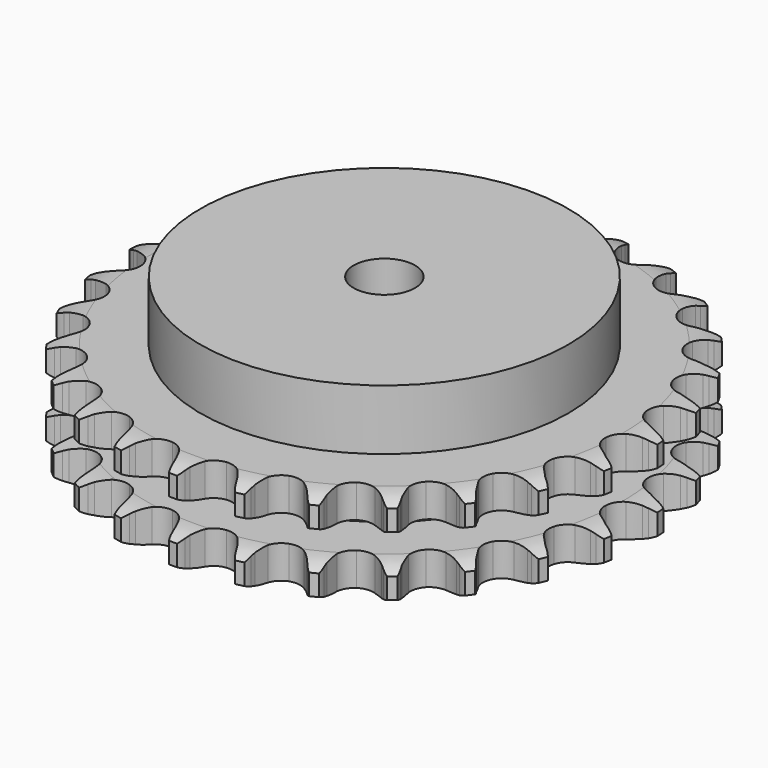
from build123d import *

# Parameters (mm, degrees)
PAD_DEPTH         = 30.3
SKETCH001_R       = 60
PAD001_DEPTH      = 50
SKETCH002_R       = 10
POCKET_DEPTH      = 0.001
POCKET_DEPTH_BACK = 50.001


with BuildPart() as part:
    # Sprocket → Pad (new body)
    with BuildSketch(Plane.XY):
        with BuildLine():
            ThreePointArc((-10.223451, 87.467216), (-8.67739, 85.726182), (-7.581898, 83.671577))
            Line((-7.581898, 83.671577), (-6.99412, 82.163716))
            ThreePointArc((-6.99412, 82.163716), (-6.059632, 80.184804), (-4.86001, 78.354431))
            ThreePointArc((-4.86001, 78.354431), (-2.712671, 76.57905), (0, 75.943076))
            ThreePointArc((0, 75.943076), (2.712671, 76.57905), (4.86001, 78.354431))
            ThreePointArc((4.86001, 78.354431), (6.059632, 80.184804), (6.99412, 82.163716))
            Line((6.99412, 82.163716), (7.581898, 83.671577))
            ThreePointArc((7.581898, 83.671577), (8.67739, 85.726182), (10.223451, 87.467216))
            ThreePointArc((10.223451, 87.467216), (11.326328, 85.416565), (11.918466, 83.164705))
            Line((11.918466, 83.164705), (12.142664, 81.561937))
            ThreePointArc((12.142664, 81.561937), (12.595595, 79.42086), (13.340768, 77.363173))
            ThreePointArc((13.340768, 77.363173), (15.020794, 75.140437), (17.513679, 73.896021))
            ThreePointArc((17.513679, 73.896021), (20.299894, 73.889267), (22.798783, 75.121582))
            Line((22.798783, 75.121582), (25.75385, 78.336027))
            ThreePointArc((25.75385, 78.336027), (26.19658, 79.013673), (26.673521, 79.667692))
            ThreePointArc((26.673521, 79.667692), (28.213308, 81.414277), (30.119205, 82.751835))
            ThreePointArc((30.119205, 82.751835), (30.719441, 80.50212), (30.776303, 78.174402))
            Line((30.776303, 78.174402), (30.624834, 76.563134))
            ThreePointArc((30.624834, 76.563134), (30.57179, 74.375316), (30.822341, 72.201246))
            ThreePointArc((30.822341, 72.201246), (31.944484, 69.650983), (34.08319, 67.865212))
            ThreePointArc((34.08319, 67.865212), (36.792746, 67.216094), (39.508468, 67.838909))
            Line((39.508468, 67.838909), (43.125183, 70.285223))
            ThreePointArc((43.125183, 70.285223), (43.712255, 70.842502), (44.327167, 71.368902))
            ThreePointArc((44.327167, 71.368902), (46.228239, 72.713308), (48.391224, 73.575282))
            ThreePointArc((48.391224, 73.575282), (48.456461, 71.247784), (47.974982, 68.969697))
            Line((47.974982, 68.969697), (47.456012, 67.436792))
            ThreePointArc((47.456012, 67.436792), (46.899851, 65.32018), (46.642274, 63.146931))
            ThreePointArc((46.642274, 63.146931), (47.146038, 60.406627), (48.815268, 58.175771))
            ThreePointArc((48.815268, 58.175771), (51.302091, 56.919285), (54.088241, 56.899023))
            Line((54.088241, 56.899023), (58.171626, 58.445324))
            ThreePointArc((58.171626, 58.445324), (58.871391, 58.852194), (59.591124, 59.222596))
            ThreePointArc((59.591124, 59.222596), (61.750994, 60.092346), (64.05446, 60.432267))
            ThreePointArc((64.05446, 60.432267), (63.58118, 58.152462), (62.587317, 56.046817))
            Line((62.587317, 56.046817), (61.728823, 54.674915))
            ThreePointArc((61.728823, 54.674915), (60.69953, 52.743616), (59.94771, 50.688348))
            ThreePointArc((59.94771, 50.688348), (59.805937, 47.905734), (60.915703, 45.35006))
            ThreePointArc((60.915703, 45.35006), (63.045726, 43.553942), (65.752103, 42.891695))
            Line((65.752103, 42.891695), (70.082021, 43.454623))
            ThreePointArc((70.082021, 43.454623), (70.856755, 43.689148), (71.642508, 43.883584))
            ThreePointArc((71.642508, 43.883584), (73.944737, 44.23179), (76.264504, 44.031332))
            ThreePointArc((76.264504, 44.031332), (75.278222, 41.922125), (73.825553, 40.10244))
            Line((73.825553, 40.10244), (72.673818, 38.965499))
            ThreePointArc((72.673818, 38.965499), (71.226881, 37.32363), (70.021349, 35.497144))
            ThreePointArc((70.021349, 35.497144), (69.241683, 32.82223), (69.732156, 30.079516))
            ThreePointArc((69.732156, 30.079516), (71.390551, 27.840594), (73.871252, 26.572066))
            Line((73.871252, 26.572066), (78.214277, 26.121272))
            ThreePointArc((78.214277, 26.121272), (79.022212, 26.17081), (79.831626, 26.178797))
            ThreePointArc((79.831626, 26.178797), (82.152099, 25.986686), (84.363108, 25.256657))
            ThreePointArc((84.363108, 25.256657), (82.916995, 23.431756), (81.083835, 21.996129))
            Line((81.083835, 21.996129), (79.700948, 21.155443))
            ThreePointArc((79.700948, 21.155443), (77.914373, 19.891518), (76.32012, 18.392279))
            ThreePointArc((76.32012, 18.392279), (74.944592, 15.969271), (74.78933, 13.187377))
            ThreePointArc((74.78933, 13.187377), (75.886692, 10.626353), (78.007983, 8.819929))
            Line((78.007983, 8.819929), (82.129981, 7.379716))
            ThreePointArc((82.129981, 7.379716), (82.927563, 7.241596), (83.717, 7.062705))
            ThreePointArc((83.717, 7.062705), (85.930621, 6.340634), (87.913676, 5.120389))
            ThreePointArc((87.913676, 5.120389), (86.085692, 3.678175), (83.970866, 2.704001))
            Line((83.970866, 2.704001), (82.43138, 2.204892))
            ThreePointArc((82.43138, 2.204892), (80.401481, 1.387048), (78.504452, 0.295882))
            ThreePointArc((78.504452, 0.295882), (76.607218, -1.744595), (75.814592, -4.415697))
            ThreePointArc((75.814592, -4.415697), (76.291762, -7.160757), (77.939284, -9.407692))
            Line((77.939284, -9.407692), (81.618036, -11.759683))
            ThreePointArc((81.618036, -11.759683), (82.362266, -12.078015), (83.089169, -12.43414))
            ThreePointArc((83.089169, -12.43414), (85.076601, -13.647244), (86.724794, -15.291921))
            ThreePointArc((86.724794, -15.291921), (84.613487, -16.273697), (82.331006, -16.7339))
            Line((82.331006, -16.7339), (80.717914, -16.864525))
            ThreePointArc((80.717914, -16.864525), (78.554124, -17.192197), (76.45659, -17.816466))
            ThreePointArc((76.45659, -17.816466), (74.139929, -19.364409), (72.75267, -21.78072))
            ThreePointArc((72.75267, -21.78072), (72.583924, -24.561829), (73.668857, -27.128142))
            Line((73.668857, -27.128142), (76.706042, -30.265113))
            ThreePointArc((76.706042, -30.265113), (77.356799, -30.746496), (77.98198, -31.260658))
            ThreePointArc((77.98198, -31.260658), (79.636079, -32.899395), (80.860556, -34.879839))
            ThreePointArc((80.860556, -34.879839), (78.579746, -35.34825), (76.25266, -35.269672))
            Line((76.25266, -35.269672), (74.652925, -35.024772))
            ThreePointArc((74.652925, -35.024772), (72.471894, -34.844607), (70.286933, -34.968324))
            ThreePointArc((70.286933, -34.968324), (67.675738, -35.940283), (65.768633, -37.971538))
            ThreePointArc((65.768633, -37.971538), (64.963067, -40.638767), (65.426923, -43.386107))
            Line((65.426923, -43.386107), (67.658805, -47.138944))
            ThreePointArc((67.658805, -47.138944), (68.181006, -47.757426), (68.670762, -48.401905))
            ThreePointArc((68.670762, -48.401905), (69.902356, -50.377931), (70.637105, -52.587376))
            ThreePointArc((70.637105, -52.587376), (68.309751, -52.51717), (66.063514, -51.904047))
            Line((66.063514, -51.904047), (64.563378, -51.296824))
            ThreePointArc((64.563378, -51.296824), (62.482685, -50.618535), (60.328089, -50.23503))
            ThreePointArc((60.328089, -50.23503), (57.56313, -50.578607), (55.238992, -52.115301))
            ThreePointArc((55.238992, -52.115301), (53.840035, -54.524858), (53.657807, -57.305116))
            Line((53.657807, -57.305116), (54.964065, -61.471502))
            ThreePointArc((54.964065, -61.471502), (55.329558, -62.19374), (55.657485, -62.933793))
            ThreePointArc((55.657485, -62.933793), (56.400178, -65.14058), (56.605589, -67.459914))
            ThreePointArc((56.605589, -67.459914), (54.35716, -66.854876), (52.312866, -65.740261))
            Line((52.312866, -65.740261), (50.993202, -64.803451))
            ThreePointArc((50.993202, -64.803451), (49.125019, -63.663605), (47.116942, -62.793553))
            ThreePointArc((47.116942, -62.793553), (44.347279, -62.490226), (41.731402, -63.449514))
            ThreePointArc((41.731402, -63.449514), (39.814472, -65.4715), (38.995985, -68.134791))
            Line((38.995985, -68.134791), (39.306197, -72.490115))
            ThreePointArc((39.306197, -72.490115), (39.495279, -73.277174), (39.643699, -74.072904))
            ThreePointArc((39.643699, -74.072904), (39.857453, -76.391484), (39.522451, -78.695671))
            ThreePointArc((39.522451, -78.695671), (37.47416, -77.588418), (35.742019, -76.032401))
            Line((35.742019, -76.032401), (34.673969, -74.816508))
            ThreePointArc((34.673969, -74.816508), (33.11901, -73.276553), (31.365709, -71.96686))
            ThreePointArc((31.365709, -71.96686), (28.740654, -71.03298), (25.974062, -71.363148))
            ThreePointArc((25.974062, -71.363148), (23.642501, -72.888556), (22.231879, -75.291302))
            Line((22.231879, -75.291302), (21.529323, -79.600768))
            ThreePointArc((21.529323, -79.600768), (21.5318, -80.410217), (21.492711, -81.218725))
            ThreePointArc((21.492711, -81.218725), (21.166001, -83.524103), (20.308648, -85.688923))
            ThreePointArc((20.308648, -85.688923), (18.570919, -84.139148), (17.244309, -82.225615))
            Line((17.244309, -82.225615), (16.485454, -80.796186))
            ThreePointArc((16.485454, -80.796186), (15.327546, -78.939143), (13.923542, -77.260414))
            ThreePointArc((13.923542, -77.260414), (11.584614, -75.746328), (8.816453, -75.429576))
            ThreePointArc((8.816453, -75.429576), (6.195957, -76.376172), (4.269246, -78.388839))
            Line((4.269246, -78.388839), (2.591797, -82.420122))
            ThreePointArc((2.591797, -82.420122), (2.407535, -83.208324), (2.183045, -83.986024))
            ThreePointArc((2.183045, -83.986024), (1.333485, -86.153915), (0, -88.062664))
            ThreePointArc((0, -88.062664), (-1.333485, -86.153915), (-2.183045, -83.986024))
            Line((-2.183045, -83.986024), (-2.591797, -82.420122))
            ThreePointArc((-2.591797, -82.420122), (-3.290229, -80.346104), (-4.269246, -78.388839))
            ThreePointArc((-4.269246, -78.388839), (-6.195957, -76.376172), (-8.816453, -75.429576))
            ThreePointArc((-8.816453, -75.429576), (-11.584614, -75.746328), (-13.923542, -77.260414))
            Line((-13.923542, -77.260414), (-16.485454, -80.796186))
            ThreePointArc((-16.485454, -80.796186), (-16.84652, -81.520648), (-17.244309, -82.225615))
            ThreePointArc((-17.244309, -82.225615), (-18.570919, -84.139148), (-20.308648, -85.688923))
            ThreePointArc((-20.308648, -85.688923), (-21.166001, -83.524103), (-21.492711, -81.218725))
            Line((-21.492711, -81.218725), (-21.529323, -79.600768))
            ThreePointArc((-21.529323, -79.600768), (-21.730627, -77.421585), (-22.231879, -75.291302))
            ThreePointArc((-22.231879, -75.291302), (-23.642501, -72.888556), (-25.974062, -71.363148))
            ThreePointArc((-25.974062, -71.363148), (-28.740654, -71.03298), (-31.365709, -71.96686))
            Line((-31.365709, -71.96686), (-34.673969, -74.816508))
            ThreePointArc((-34.673969, -74.816508), (-35.192376, -75.438174), (-35.742019, -76.032401))
            ThreePointArc((-35.742019, -76.032401), (-37.47416, -77.588418), (-39.522451, -78.695671))
            ThreePointArc((-39.522451, -78.695671), (-39.857453, -76.391484), (-39.643699, -74.072904))
            Line((-39.643699, -74.072904), (-39.306197, -72.490115))
            ThreePointArc((-39.306197, -72.490115), (-38.999521, -70.323249), (-38.995985, -68.134791))
            ThreePointArc((-38.995985, -68.134791), (-39.814472, -65.4715), (-41.731402, -63.449514))
            ThreePointArc((-41.731402, -63.449514), (-44.347279, -62.490226), (-47.116942, -62.793553))
            Line((-47.116942, -62.793553), (-50.993202, -64.803451))
            ThreePointArc((-50.993202, -64.803451), (-51.641001, -65.288808), (-52.312866, -65.740261))
            ThreePointArc((-52.312866, -65.740261), (-54.35716, -66.854876), (-56.605589, -67.459914))
            ThreePointArc((-56.605589, -67.459914), (-56.400178, -65.14058), (-55.657485, -62.933793))
            Line((-55.657485, -62.933793), (-54.964065, -61.471502))
            ThreePointArc((-54.964065, -61.471502), (-54.165941, -59.433768), (-53.657807, -57.305116))
            ThreePointArc((-53.657807, -57.305116), (-53.840035, -54.524858), (-55.238992, -52.115301))
            ThreePointArc((-55.238992, -52.115301), (-57.56313, -50.578607), (-60.328089, -50.23503))
            Line((-60.328089, -50.23503), (-64.563378, -51.296824))
            ThreePointArc((-64.563378, -51.296824), (-65.305646, -51.619705), (-66.063514, -51.904047))
            ThreePointArc((-66.063514, -51.904047), (-68.309751, -52.51717), (-70.637105, -52.587376))
            ThreePointArc((-70.637105, -52.587376), (-69.902356, -50.377931), (-68.670762, -48.401905))
            Line((-68.670762, -48.401905), (-67.658805, -47.138944))
            ThreePointArc((-67.658805, -47.138944), (-66.412262, -45.340197), (-65.426923, -43.386107))
            ThreePointArc((-65.426923, -43.386107), (-64.963067, -40.638767), (-65.768633, -37.971538))
            ThreePointArc((-65.768633, -37.971538), (-67.675738, -35.940283), (-70.286933, -34.968324))
            Line((-70.286933, -34.968324), (-74.652925, -35.024772))
            ThreePointArc((-74.652925, -35.024772), (-75.449647, -35.167771), (-76.25266, -35.269672))
            ThreePointArc((-76.25266, -35.269672), (-78.579746, -35.34825), (-80.860556, -34.879839))
            ThreePointArc((-80.860556, -34.879839), (-79.636079, -32.899395), (-77.98198, -31.260658))
            Line((-77.98198, -31.260658), (-76.706042, -30.265113))
            ThreePointArc((-76.706042, -30.265113), (-75.07828, -28.802325), (-73.668857, -27.128142))
            ThreePointArc((-73.668857, -27.128142), (-72.583924, -24.561829), (-72.75267, -21.78072))
            ThreePointArc((-72.75267, -21.78072), (-74.139929, -19.364409), (-76.45659, -17.816466))
            Line((-76.45659, -17.816466), (-80.717914, -16.864525))
            ThreePointArc((-80.717914, -16.864525), (-81.526138, -16.819933), (-82.331006, -16.7339))
            ThreePointArc((-82.331006, -16.7339), (-84.613487, -16.273697), (-86.724794, -15.291921))
            ThreePointArc((-86.724794, -15.291921), (-85.076601, -13.647244), (-83.089169, -12.43414))
            Line((-83.089169, -12.43414), (-81.618036, -11.759683))
            ThreePointArc((-81.618036, -11.759683), (-79.696808, -10.711712), (-77.939284, -9.407692))
            ThreePointArc((-77.939284, -9.407692), (-76.291762, -7.160757), (-75.814592, -4.415697))
            ThreePointArc((-75.814592, -4.415697), (-76.607218, -1.744595), (-78.504452, 0.295882))
            Line((-78.504452, 0.295882), (-82.43138, 2.204892))
            ThreePointArc((-82.43138, 2.204892), (-83.207534, 2.434672), (-83.970866, 2.704001))
            ThreePointArc((-83.970866, 2.704001), (-86.085692, 3.678175), (-87.913676, 5.120389))
            ThreePointArc((-87.913676, 5.120389), (-85.930621, 6.340634), (-83.717, 7.062705))
            Line((-83.717, 7.062705), (-82.129981, 7.379716))
            ThreePointArc((-82.129981, 7.379716), (-80.018861, 7.956373), (-78.007983, 8.819929))
            ThreePointArc((-78.007983, 8.819929), (-75.886692, 10.626353), (-74.78933, 13.187377))
            ThreePointArc((-74.78933, 13.187377), (-74.944592, 15.969271), (-76.32012, 18.392279))
            Line((-76.32012, 18.392279), (-79.700948, 21.155443))
            ThreePointArc((-79.700948, 21.155443), (-80.40319, 21.558023), (-81.083835, 21.996129))
            ThreePointArc((-81.083835, 21.996129), (-82.916995, 23.431756), (-84.363108, 25.256657))
            ThreePointArc((-84.363108, 25.256657), (-82.152099, 25.986686), (-79.831626, 26.178797))
            Line((-79.831626, 26.178797), (-78.214277, 26.121272))
            ThreePointArc((-78.214277, 26.121272), (-76.027077, 26.195527), (-73.871252, 26.572066))
            ThreePointArc((-73.871252, 26.572066), (-71.390551, 27.840594), (-69.732156, 30.079516))
            ThreePointArc((-69.732156, 30.079516), (-69.241683, 32.82223), (-70.021349, 35.497144))
            Line((-70.021349, 35.497144), (-72.673818, 38.965499))
            ThreePointArc((-72.673818, 38.965499), (-73.26429, 39.519175), (-73.825553, 40.10244))
            ThreePointArc((-73.825553, 40.10244), (-75.278222, 41.922125), (-76.264504, 44.031332))
            ThreePointArc((-76.264504, 44.031332), (-73.944737, 44.23179), (-71.642508, 43.883584))
            Line((-71.642508, 43.883584), (-70.082021, 43.454623))
            ThreePointArc((-70.082021, 43.454623), (-67.936653, 43.022474), (-65.752103, 42.891695))
            ThreePointArc((-65.752103, 42.891695), (-63.045726, 43.553942), (-60.915703, 45.35006))
            ThreePointArc((-60.915703, 45.35006), (-59.805937, 47.905734), (-59.94771, 50.688348))
            Line((-59.94771, 50.688348), (-61.728823, 54.674915))
            ThreePointArc((-61.728823, 54.674915), (-62.175692, 55.349839), (-62.587317, 56.046817))
            ThreePointArc((-62.587317, 56.046817), (-63.58118, 58.152462), (-64.05446, 60.432267))
            ThreePointArc((-64.05446, 60.432267), (-61.750994, 60.092346), (-59.591124, 59.222596))
            Line((-59.591124, 59.222596), (-58.171626, 58.445324))
            ThreePointArc((-58.171626, 58.445324), (-56.183746, 57.530068), (-54.088241, 56.899023))
            ThreePointArc((-54.088241, 56.899023), (-51.302091, 56.919285), (-48.815268, 58.175771))
            ThreePointArc((-48.815268, 58.175771), (-47.146038, 60.406627), (-46.642274, 63.146931))
            Line((-46.642274, 63.146931), (-47.456012, 67.436792))
            ThreePointArc((-47.456012, 67.436792), (-47.735187, 68.196578), (-47.974982, 68.969697))
            ThreePointArc((-47.974982, 68.969697), (-48.456461, 71.247784), (-48.391224, 73.575282))
            ThreePointArc((-48.391224, 73.575282), (-46.228239, 72.713308), (-44.327167, 71.368902))
            Line((-44.327167, 71.368902), (-43.125183, 70.285223))
            ThreePointArc((-43.125183, 70.285223), (-41.401959, 68.936201), (-39.508468, 67.838909))
            ThreePointArc((-39.508468, 67.838909), (-36.792746, 67.216094), (-34.08319, 67.865212))
            ThreePointArc((-34.08319, 67.865212), (-31.944484, 69.650983), (-30.822341, 72.201246))
            Line((-30.822341, 72.201246), (-30.624834, 76.563134))
            ThreePointArc((-30.624834, 76.563134), (-30.721266, 77.366822), (-30.776303, 78.174402))
            ThreePointArc((-30.776303, 78.174402), (-30.719441, 80.50212), (-30.119205, 82.751835))
            ThreePointArc((-30.119205, 82.751835), (-28.213308, 81.414277), (-26.673521, 79.667692))
            Line((-26.673521, 79.667692), (-25.75385, 78.336027))
            ThreePointArc((-25.75385, 78.336027), (-24.388182, 76.625965), (-22.798783, 75.121582))
            ThreePointArc((-22.798783, 75.121582), (-20.299894, 73.889267), (-17.513679, 73.896021))
            ThreePointArc((-17.513679, 73.896021), (-15.020794, 75.140437), (-13.340768, 77.363173))
            Line((-13.340768, 77.363173), (-12.142664, 81.561937))
            ThreePointArc((-12.142664, 81.561937), (-12.051153, 82.366201), (-11.918466, 83.164705))
            ThreePointArc((-11.918466, 83.164705), (-11.326328, 85.416565), (-10.223451, 87.467216))
        make_face()
    extrude(amount=PAD_DEPTH)

    # Sketch → Groove (revolve, cut)
    with BuildSketch(Plane.XZ):
        with BuildLine():
            ThreePointArc((77.664719, 0), (82.023618, 0.506758), (86.15, 2))
            Line((86.15, 2), (86.15, 8.8))
            ThreePointArc((86.15, 8.8), (82.023618, 10.293242), (77.664719, 10.8))
            Line((60, 10.8), (77.664719, 10.8))
            Line((60, 19.5), (60, 10.8))
            Line((77.664719, 19.5), (60, 19.5))
            ThreePointArc((77.664719, 19.5), (82.023618, 20.006758), (86.15, 21.5))
            Line((86.15, 21.5), (86.15, 28.3))
            ThreePointArc((86.15, 28.3), (82.023618, 29.793242), (77.664719, 30.3))
            Line((77.664719, 30.3), (96.15, 30.3))
            Line((96.15, 30.3), (96.15, 0))
            Line((77.664719, 0), (96.15, 0))
        make_face()
    revolve(axis=Axis((0, 0, 0), (0, 0, 1)), mode=Mode.SUBTRACT)

    # Sketch001 → Pad001 (join)
    with BuildSketch(Plane.XY):
        Circle(SKETCH001_R)
    extrude(amount=PAD001_DEPTH)

    # Sketch002 → Pocket (cut, two sides)
    with BuildSketch(Plane.XY) as pocket_sk:
        Circle(SKETCH002_R)
    extrude(amount=-POCKET_DEPTH, mode=Mode.SUBTRACT)
    extrude(pocket_sk.sketch, amount=POCKET_DEPTH_BACK, mode=Mode.SUBTRACT)


solid = part.part
